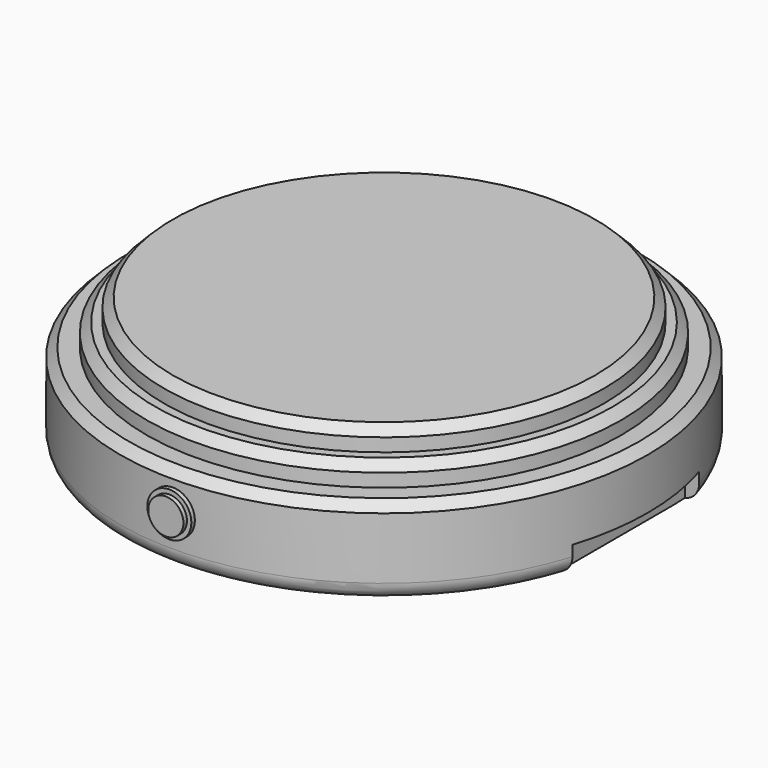
from build123d import *

# Parameters (mm, degrees)
F0_R      = 19.05
F1_DEPTH  = 6.35
F2_R      = 17.145
F2_R_2    = 15.875
F3_DEPTH  = 1.5875
F3_FACE_R = 15.875
F4_DEPTH  = 3.175
F5_SIZE   = 0.635
F6_R      = 1.27
F8_R      = 1.27
F9_DEPTH  = 0.635
F8_R_2    = 1.5875
F10_DEPTH = 0.3175
F12_W     = 11.43
F12_H     = 4.064
F13_DEPTH = 1.905
F15_W     = 11.43
F15_H     = 4.064
F16_DEPTH = 1.905


with BuildPart() as f1:
    # F0 (on Top) → F1 (new body)
    with BuildSketch(Plane.XY):
        Circle(F0_R)
    extrude(amount=F1_DEPTH)

    # F2 (on face) → F3 (join)
    with BuildSketch(Plane.XY.offset(6.35)):
        Circle(F2_R)
        Circle(F2_R_2, mode=Mode.SUBTRACT)
    extrude(amount=F3_DEPTH)

    # F3_face (on face) → F4 (join)
    with BuildSketch(Plane.XY.offset(6.35)):
        Circle(F3_FACE_R)
    extrude(amount=F4_DEPTH)

    # F5
    f5_edges = [f1.edges().sort_by_distance(p)[0] for p in [
        (-19.05, 0, 6.35),
        (-17.145, 0, 7.9375),
        (-15.875, 0, 9.525),
    ]]
    chamfer(f5_edges, length=F5_SIZE)

    # F6
    f6_edges = [f1.edges().sort_by_distance(p)[0] for p in [
        (-19.05, 0, 0),
    ]]
    fillet(f6_edges, radius=F6_R)

    # F8 (on offset) → F9 (join)
    with BuildSketch(Plane.XZ.offset(19.05)):
        with Locations((0, 3.605308)):
            Circle(F8_R)
    extrude(amount=F9_DEPTH)

    # F12 (on offset) → F13 (cut)
    with BuildSketch(Plane.YZ.offset(19.05)):
        Rectangle(F12_W, F12_H)
    extrude(amount=-F13_DEPTH, mode=Mode.SUBTRACT)

    # F15 (on offset) → F16 (cut)
    with BuildSketch(Plane.YZ.offset(-19.05)):
        Rectangle(F15_W, F15_H)
    extrude(amount=F16_DEPTH, mode=Mode.SUBTRACT)


with BuildPart() as f10:
    # F8 (on offset) → F10 (new body)
    with BuildSketch(Plane.XZ.offset(19.05)):
        with Locations((0, 3.605308)):
            Circle(F8_R_2)
        with Locations((0, 3.605308)):
            Circle(F8_R, mode=Mode.SUBTRACT)
    extrude(amount=F10_DEPTH)


solid = Compound([f1.part, f10.part])
